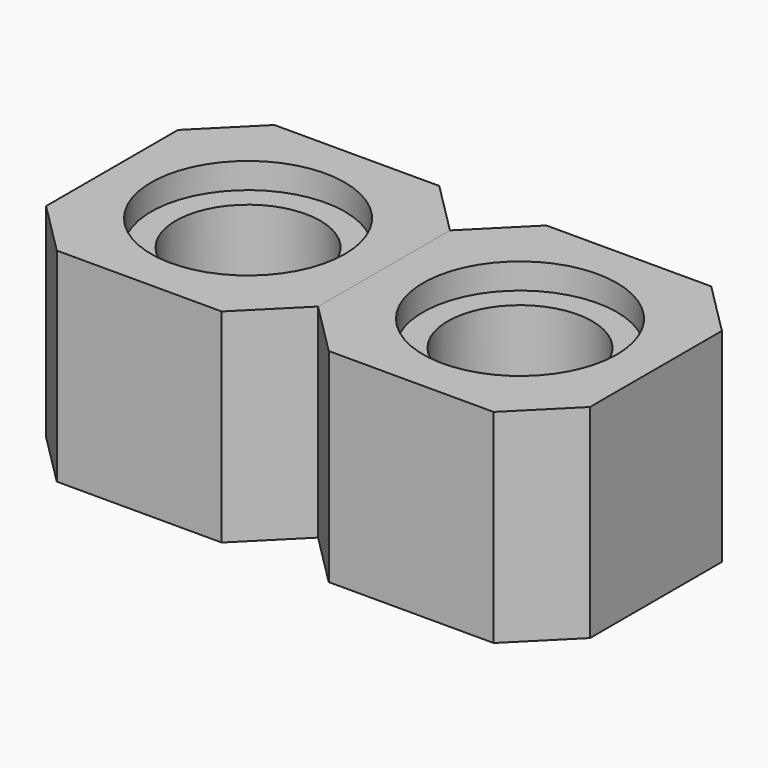
from build123d import *

# Parameters (mm, degrees)
SKETCH019_R      = 0.905
EXTRUDE003_DEPTH = 0.24
SKETCH018_R      = 0.675
EXTRUDE004_DEPTH = 1.3
SKETCH013_R      = 0.375
SKETCH014_R      = 0.675
SKETCH015_R      = 0.675
SKETCH016_R      = 0.75
SKETCH017_R      = 0.75
SKETCH022_W      = 2.54
SKETCH022_H      = 2.54
EXTRUDE008_DEPTH = 1.9
CHAMFER002_SIZE  = 0.5
ARRAY002_X_COUNT = 2
ARRAY002_X_PITCH = 2.54


with BuildPart() as extrude003:
    # Sketch019 → Extrude003 (new body)
    with BuildSketch(Plane.XY.offset(2.3)):
        Circle(SKETCH019_R)
    extrude(amount=EXTRUDE003_DEPTH)


with BuildPart() as extrude004:
    # Sketch018 → Extrude004 (new body)
    with BuildSketch(Plane.XY.offset(1)):
        Circle(SKETCH018_R)
    extrude(amount=EXTRUDE004_DEPTH)


with BuildPart() as fusion002:
    # Sketch013 → Loft004 section 0
    with BuildSketch(Plane.XY):
        Circle(SKETCH013_R)
    # Sketch014 → Loft004 section 1
    with BuildSketch(Plane.XY.offset(0.275)):
        Circle(SKETCH014_R)
    # Sketch015 → Loft004 section 2
    with BuildSketch(Plane.XY.offset(0.8)):
        Circle(SKETCH015_R)
    # Sketch016 → Loft004 section 3
    with BuildSketch(Plane.XY.offset(0.95)):
        Circle(SKETCH016_R)
    # Sketch017 → Loft004 section 4
    with BuildSketch(Plane.XY.offset(1)):
        Circle(SKETCH017_R)
    loft(ruled=True)

    # Fusion002: union Extrude003, Extrude004
    add(extrude003.part)
    add(extrude004.part)


with BuildPart() as array002:
    # Sketch022 → Extrude008 (new body)
    with BuildSketch(Plane.XY):
        Rectangle(SKETCH022_W, SKETCH022_H)
    extrude(amount=EXTRUDE008_DEPTH)

    # Chamfer002
    chamfer002_edges = [array002.edges().sort_by_distance(p)[0] for p in [
        (-1.27, 1.27, 0.95),
        (1.27, 1.27, 0.95),
        (1.27, -1.27, 0.95),
        (-1.27, -1.27, 0.95),
    ]]
    chamfer(chamfer002_edges, length=CHAMFER002_SIZE)


with BuildPart() as array002_1:
    # Chamfer002 placement: moved
    add(array002.part.moved(Location((0, 0, 0.64))))

    # Cut004: cut Fusion002
    add(fusion002.part, mode=Mode.SUBTRACT)


with BuildPart() as array002_2:
    # Cut004 placement: moved
    add(array002_1.part.moved(Location((0, 0, 1.16))))


with BuildPart() as array002_copy1:
    # Array002 X: instance of Array002
    add(array002_2.part.moved(Location(Vector(1, 0, 0) * (1 * ARRAY002_X_PITCH))))


solid = Compound([array002_2.part, array002_copy1.part])
